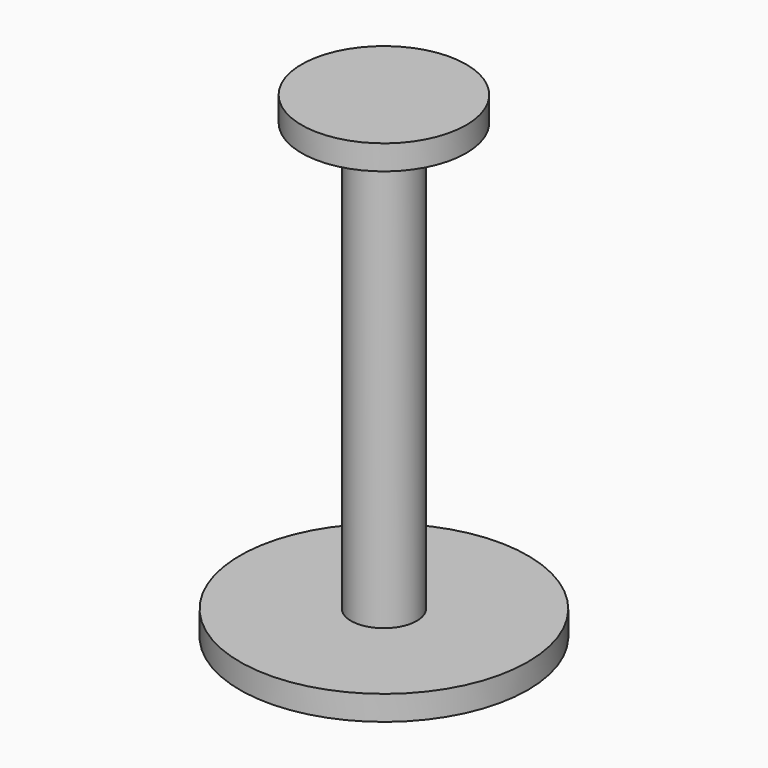
from build123d import *

# Parameters (mm, degrees)
F0_R     = 17.5
F0_R_2   = 4
F1_DEPTH = 3
F2_DEPTH = 55
F3_R     = 10
F3_R_2   = 4
F4_DEPTH = 3


with BuildPart() as f1:
    # F0 (on Top) → F1 (new body)
    with BuildSketch(Plane.XY):
        Circle(F0_R)
        Circle(F0_R_2, mode=Mode.SUBTRACT)
        Circle(F0_R_2)
    extrude(amount=F1_DEPTH)

    # F0 (on Top) → F2 (join)
    with BuildSketch(Plane.XY):
        Circle(F0_R_2)
    extrude(amount=F2_DEPTH)

    # F3 (on face) → F4 (join)
    with BuildSketch(Plane.XY.offset(55)):
        Circle(F3_R)
        Circle(F3_R_2)
    extrude(amount=F4_DEPTH)


solid = f1.part
